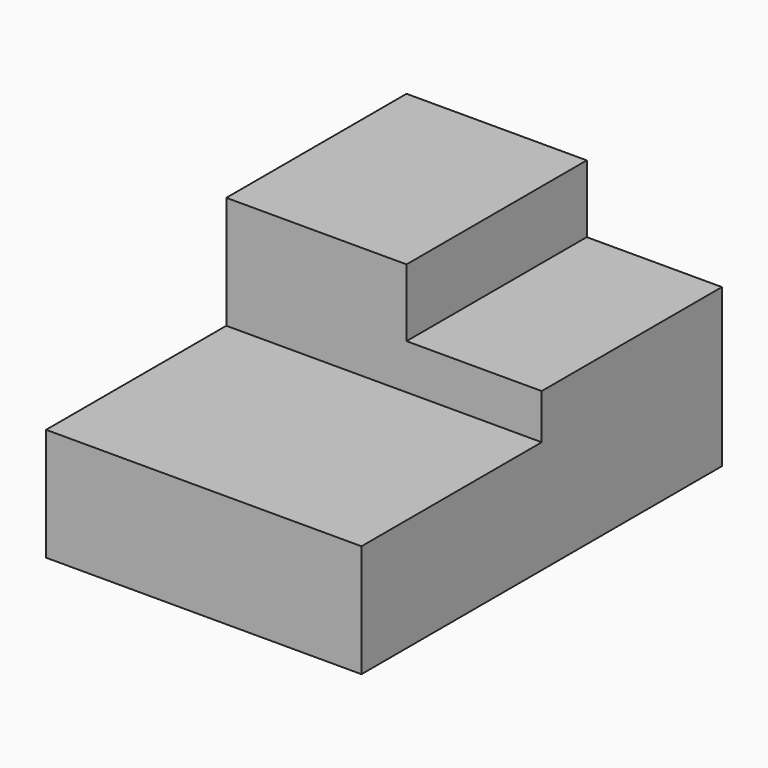
from build123d import *

# Parameters (mm, degrees)
F0_W     = 70
F0_H     = 100
F1_DEPTH = 50
F2_W     = 70
F2_H     = 50
F3_DEPTH = 25
F4_W     = 30
F4_H     = 50
F5_DEPTH = 15


with BuildPart() as f1:
    # F0 (on Top) → F1 (new body)
    with BuildSketch(Plane.XY):
        Rectangle(F0_W, F0_H)
    extrude(amount=F1_DEPTH)

    # F2 (on face) → F3 (cut)
    with BuildSketch(Plane.XY.offset(50)):
        with Locations((0, -25)):
            Rectangle(F2_W, F2_H)
    extrude(amount=-F3_DEPTH, mode=Mode.SUBTRACT)

    # F4 (on face) → F5 (cut)
    with BuildSketch(Plane.XY.offset(50)):
        with Locations((20, 25)):
            Rectangle(F4_W, F4_H)
    extrude(amount=-F5_DEPTH, mode=Mode.SUBTRACT)


solid = f1.part
